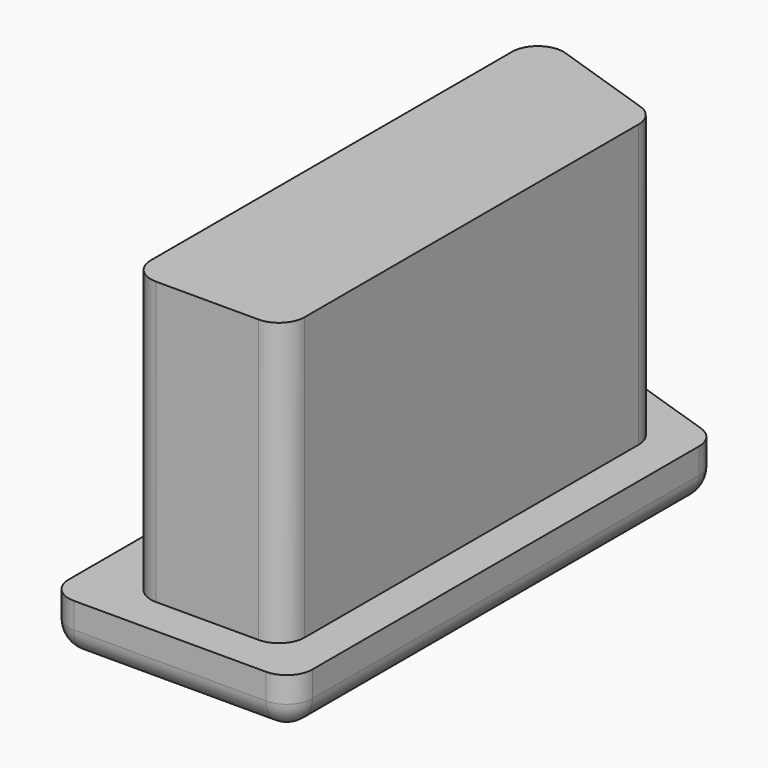
from build123d import *

# Parameters (mm, degrees)
F1_DEPTH = 2
F2_DEPTH = 13
F3_R     = 1


with BuildPart() as f1:
    # F0 (on Top) → F1 (new body)
    with BuildSketch(Plane.XY):
        Polygon((0, 0), (0, 20.581139), (-9.5, 23.747805), (-9.5, 0), align=None)
        Polygon((-1.5, 1.5), (-7.5, 1.5), (-7.5, 21.5), (-1.5, 19.5), align=None, mode=Mode.SUBTRACT)
        Polygon((-7.5, 21.5), (-7.5, 1.5), (-1.5, 1.5), (-1.5, 19.5), align=None)
    extrude(amount=F1_DEPTH)

    # F0 (on Top) → F2 (join)
    with BuildSketch(Plane.XY):
        Polygon((-7.5, 21.5), (-7.5, 1.5), (-1.5, 1.5), (-1.5, 19.5), align=None)
    extrude(amount=F2_DEPTH)

    # F3
    f3_edges = [f1.edges().sort_by_distance(p)[0] for p in [
        (-7.5, 21.5, 7.5),
        (-9.5, 23.747805, 1),
        (0, 20.581139, 1),
        (-1.5, 19.5, 7.5),
        (0, 0, 1),
        (-1.5, 1.5, 7.5),
        (-9.5, 0, 1),
        (-7.5, 1.5, 7.5),
        (-9.5, 11.873903, 0),
        (-4.75, 0, 0),
        (-4.75, 22.164472, 0),
        (0, 10.290569, 0),
    ]]
    fillet(f3_edges, radius=F3_R)


solid = f1.part
